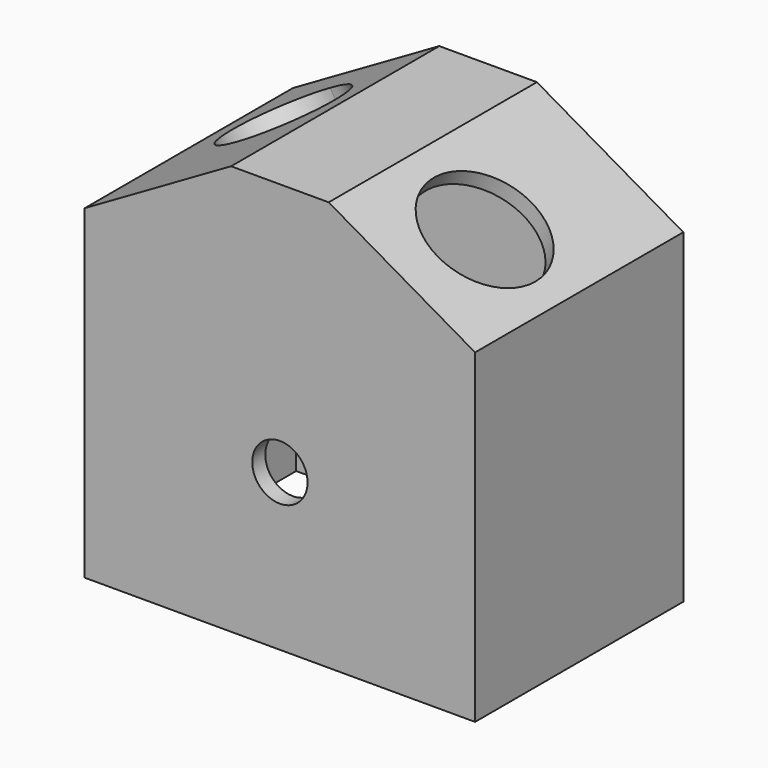
from build123d import *

# Parameters (mm, degrees)
F0_W     = 15
F0_H     = 12.9903810568
F1_DEPTH = 40
F4_T     = -2.5
F5_DEPTH = 25
F6_DEPTH = 25
F7_R     = 4.25
F8_DEPTH = 40


with BuildPart() as f1:
    # F0 (on Front) → F1 (new body)
    with BuildSketch(Plane.XZ):
        Polygon((30, 25), (15, 25), (0, -0.9807621135), (-15, 25), (-30, 25), (-30, -25), (30, -25), align=None)
        Polygon((7.5, 37.9903810568), (7.5, 25), (15, 25), (18.75, 31.4951905284), align=None)
        with Locations((0, 31.4951905284)):
            Rectangle(F0_W, F0_H)
        Polygon((-15, 25), (-7.5, 25), (-7.5, 37.9903810568), (-18.75, 31.4951905284), align=None)
        Polygon((-30, 25), (-15, 25), (-18.75, 31.4951905284), align=None)
        Polygon((18.75, 31.4951905284), (15, 25), (30, 25), align=None)
        Polygon((15, 25), (7.5, 25), (-7.5, 25), (-15, 25), (0, -0.9807621135), align=None)
    extrude(amount=F1_DEPTH)

    # F4
    f4_openings = [f1.faces().sort_by_distance(p)[0] for p in [
        (0, -20, -25),
    ]]
    offset(amount=F4_T, openings=f4_openings)

    # F3 (on face) → F5 (cut)
    with BuildSketch(Plane(origin=(18.3253175473, 0, 31.7403810568), x_dir=(0.8660254038, 0, -0.5), z_dir=(0.5, 0, 0.8660254038))):
        with BuildLine():
            ThreePointArc((9.4903810568, -24.1), (-5.8735799739, -17.7360389693), (0.4903810568, -33.1))
            ThreePointArc((0.4903810568, -33.1), (6.8543420874, -30.4639610307), (9.4903810568, -24.1))
        make_face()
    extrude(amount=-F5_DEPTH, mode=Mode.SUBTRACT)

    # F2 (on face) → F6 (cut)
    with BuildSketch(Plane(origin=(-18.3253175473, 0, 31.7403810568), x_dir=(0.8660254038, 0, 0.5), z_dir=(-0.5, 0, 0.8660254038))):
        with BuildLine():
            ThreePointArc((8.5096189432, -15.9), (5.8735799739, -9.5360389693), (-0.4903810568, -6.9))
            ThreePointArc((-0.4903810568, -6.9), (-6.8543420874, -22.2639610307), (8.5096189432, -15.9))
        make_face()
    extrude(amount=-F6_DEPTH, mode=Mode.SUBTRACT)

    # F7 (on face) → F8 (cut)
    with BuildSketch(Plane.XZ.offset(40)):
        with Locations((0, -0.9807621135)):
            Circle(F7_R)
    extrude(amount=-F8_DEPTH, mode=Mode.SUBTRACT)


solid = f1.part
